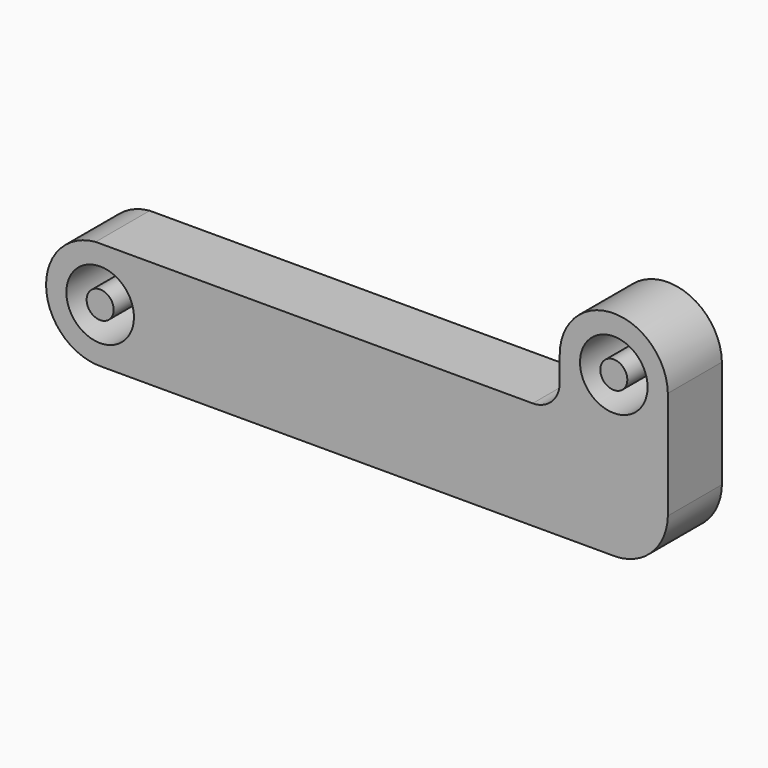
from build123d import *

# Parameters (mm, degrees)
F0_R     = 2.5
F1_DEPTH = 5
F0_R_2   = 1
F2_DEPTH = 5


with BuildPart() as f1:
    # F0 (on Front) → F1 (new body)
    with BuildSketch(Plane.XZ):
        with BuildLine():
            Line((16.152128, 33.916643), (-15.516141, 33.916643))
            Line((-15.516141, 33.916643), (-16.179602, 33.916643))
            ThreePointArc((-16.179602, 33.916643), (-19.840697, 29.690949), (-15.700783, 25.933128))
            Line((-15.700783, 25.933128), (22.005039, 25.933128))
            Line((22.005039, 25.933128), (22.299217, 25.933128))
            ThreePointArc((22.299217, 25.933128), (25.000334, 27.121914), (26.151094, 29.83945))
            Line((26.151094, 29.83945), (26.151094, 30.021396))
            Line((26.151094, 30.021396), (26.151094, 37.63945))
            Line((26.151094, 37.63945), (26.151094, 37.821396))
            ThreePointArc((26.151094, 37.821396), (22.106639, 41.730164), (18.152128, 37.730423))
            Line((18.152128, 37.730423), (18.152128, 35.916643))
            ThreePointArc((18.152128, 35.916643), (17.566342, 34.50243), (16.152128, 33.916643))
        make_face()
        with Locations((-15.847872, 29.930423)):
            Circle(F0_R, mode=Mode.SUBTRACT)
        with Locations((22.152128, 37.730423)):
            Circle(F0_R, mode=Mode.SUBTRACT)
    extrude(amount=F1_DEPTH)


with BuildPart() as f2:
    # F0 (on Front) → F2 (new body)
    with BuildSketch(Plane.XZ):
        with Locations((-15.847872, 29.930423)):
            Circle(F0_R_2)
        with Locations((22.152128, 37.730423)):
            Circle(F0_R_2)
    extrude(amount=F2_DEPTH)


solid = Compound([f1.part, f2.part])
